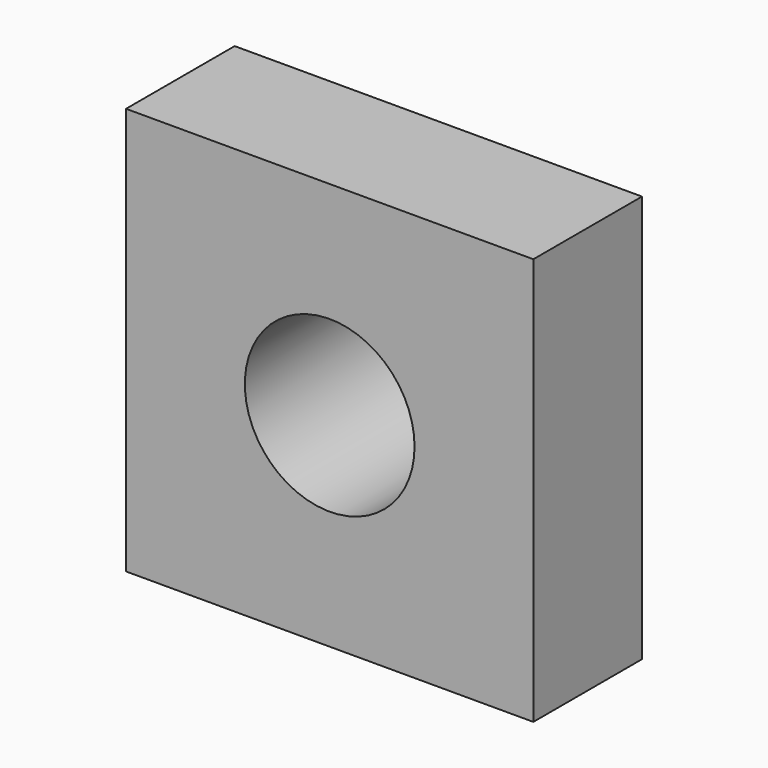
from build123d import *

# Parameters (mm, degrees)
F0_W     = 101.6
F0_H     = 101.6
F0_R     = 31.75
F1_DEPTH = 76.2
F0_W_2   = 152.4
F0_H_2   = 152.4
F2_DEPTH = 50.8


with BuildPart() as f1:
    # F0 (on Front) → F1 (new body)
    with BuildSketch(Plane.XZ):
        Rectangle(F0_W, F0_H)
        Circle(F0_R, mode=Mode.SUBTRACT)
    extrude(amount=-F1_DEPTH)

    # F0 (on Front) → F2 (join)
    with BuildSketch(Plane.XZ):
        Rectangle(F0_W_2, F0_H_2)
        Rectangle(F0_W, F0_H, mode=Mode.SUBTRACT)
    extrude(amount=-F2_DEPTH)


solid = f1.part
